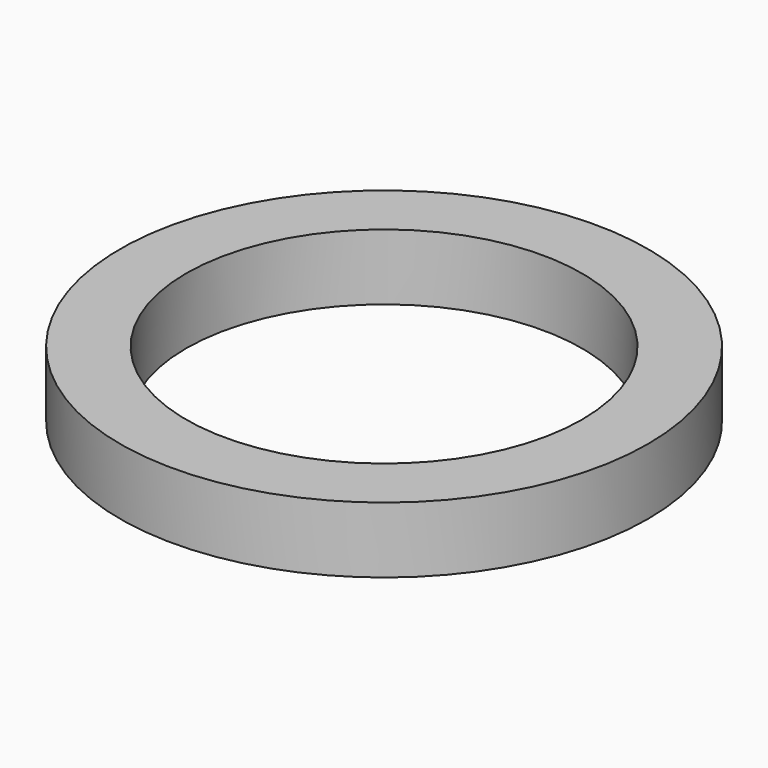
from build123d import *

# Parameters (mm, degrees)
SKETCH_R   = 4
SKETCH_R_2 = 3
PAD_DEPTH  = 1


with BuildPart() as part:
    # Sketch → Pad (new body)
    with BuildSketch(Plane.XY):
        Circle(SKETCH_R)
        Circle(SKETCH_R_2, mode=Mode.SUBTRACT)
    extrude(amount=PAD_DEPTH)


solid = part.part
